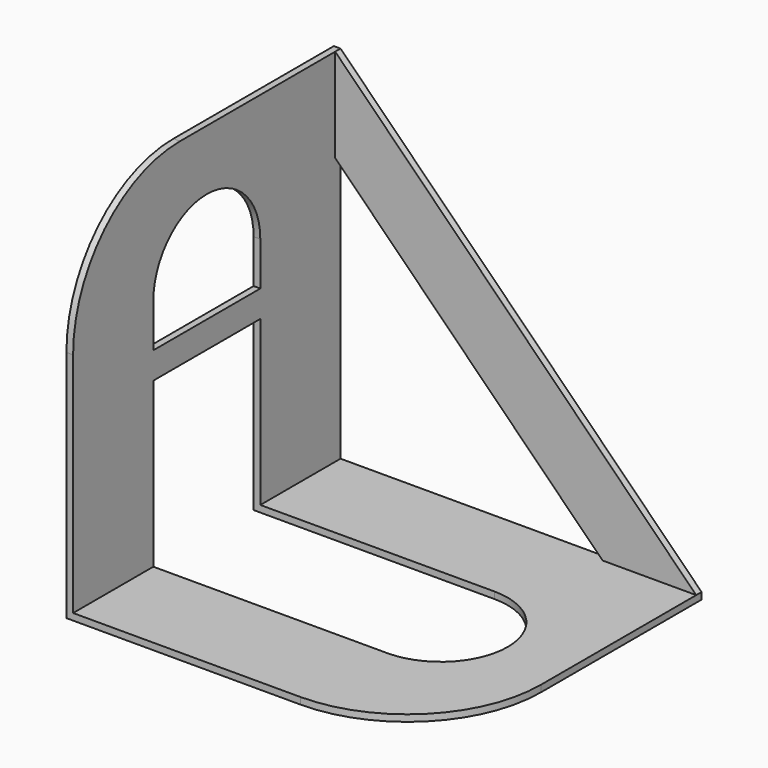
from build123d import *

# Parameters (mm, degrees)
F0_W      = 139.7
F0_H      = 127
F1_DEPTH  = 139.7
F2_W      = 137.16
F2_H      = 137.16
F3_DEPTH  = 124.46
F5_DEPTH  = 25.4
F7_DEPTH  = 25.4
F9_DEPTH  = 25.4
F11_DEPTH = 25.4
F12_R     = 50.8
F14_DEPTH = 2.54


with BuildPart() as f1:
    # F0 (on Top) → F1 (new body)
    with BuildSketch(Plane.XY):
        with Locations((-69.85, -63.5)):
            Rectangle(F0_W, F0_H)
    extrude(amount=F1_DEPTH)

    # F2 (on face) → F3 (cut)
    with BuildSketch(Plane.XZ.offset(127)):
        with Locations((-68.58, 71.12)):
            Rectangle(F2_W, F2_H)
    extrude(amount=-F3_DEPTH, mode=Mode.SUBTRACT)

    # F4 (on face) → F5 (cut)
    with BuildSketch(Plane.XZ.offset(2.54)):
        Polygon((-6.9185560569, 178.2889813185), (-137.16, 139.7), (0, 2.54), (55.8031983674, 142.7505463362), align=None)
    extrude(amount=-F5_DEPTH, mode=Mode.SUBTRACT)

    # F6 (on face) → F7 (cut)
    with BuildSketch(Plane.XZ.offset(2.54)):
        Polygon((-137.16, 104.14), (-137.16, 2.54), (-35.56, 2.54), align=None)
    extrude(amount=-F7_DEPTH, mode=Mode.SUBTRACT)

    # F8 (on face) → F9 (cut)
    with BuildSketch(Plane.XY.offset(2.54)):
        with BuildLine():
            Line((-137.16, -38.1), (-137.16, -88.9))
            Line((-137.16, -88.9), (-48.26, -88.9))
            ThreePointArc((-48.26, -88.9), (-22.86, -63.5), (-48.26, -38.1))
            Line((-48.26, -38.1), (-137.16, -38.1))
        make_face()
    extrude(amount=-F9_DEPTH, mode=Mode.SUBTRACT)

    # F10 (on face) → F11 (cut)
    with BuildSketch(Plane.YZ.offset(-137.16)):
        with BuildLine():
            Line((-38.1, 0), (-38.1, 2.54))
            Line((-38.1, 2.54), (-38.1, 91.44))
            ThreePointArc((-38.1, 91.44), (-63.5, 116.84), (-88.9, 91.44))
            Line((-88.9, 91.44), (-88.9, 2.54))
            Line((-88.9, 2.54), (-88.9, 0))
            Line((-88.9, 0), (-38.1, 0))
        make_face()
    extrude(amount=-F11_DEPTH, mode=Mode.SUBTRACT)

    # F12
    f12_edges = [f1.edges().sort_by_distance(p)[0] for p in [
        (0, -127, 1.27),
        (-138.43, -127, 139.7),
    ]]
    fillet(f12_edges, radius=F12_R)

    # F13 (on face) → F14 (join)
    with BuildSketch(Plane(origin=(-139.7, 0, 0), x_dir=(0, -1, 0), z_dir=(-1, 0, 0))):
        Polygon((38.1, 74.93), (38.1, 69.85), (38.1, 64.77), (88.9, 64.77), (88.9, 69.85), (88.9, 74.93), align=None)
    extrude(amount=-F14_DEPTH)


solid = f1.part
